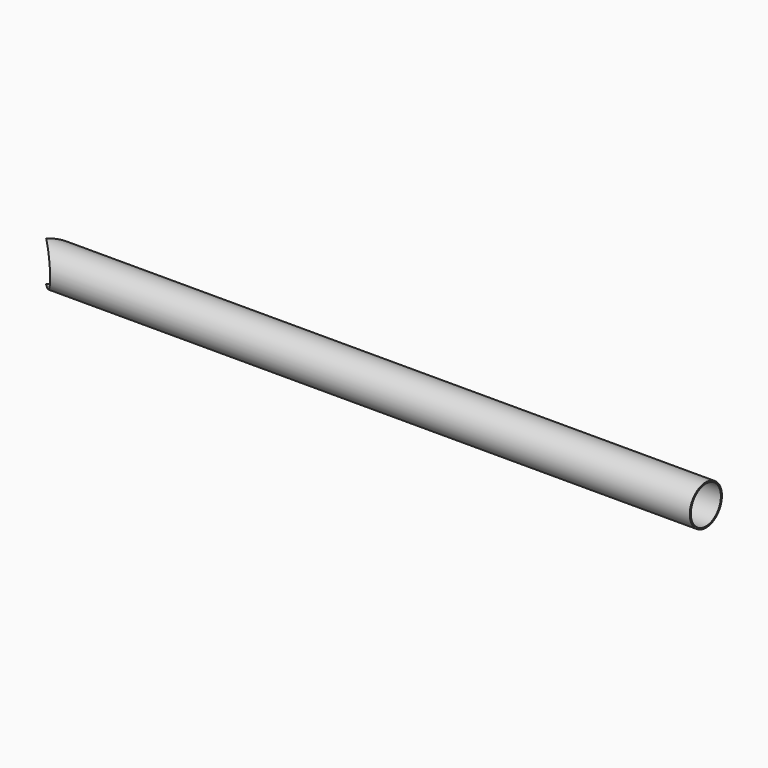
from build123d import *

# Parameters (mm, degrees)
SKETCH004_R          = 25.4
PAD002_DEPTH         = 833.289565
SKETCH013_R          = 23.749
POCKET004_DEPTH      = 833.290565
SKETCH012_R          = 25.4
POCKET005_DEPTH      = 0.001
POCKET005_DEPTH_BACK = 300.401


with BuildPart() as cargo_side_tube_r:
    # Sketch004 → Pad002 (new body)
    with BuildSketch(Plane.YZ):
        with Locations((-275, -25.4)):
            Circle(SKETCH004_R)
    extrude(amount=PAD002_DEPTH)

    # Sketch013 (on Face2 of Pad002) → Pocket004 (cut, through all)
    with BuildSketch(Plane(origin=(0, 0, 0), x_dir=(0, 1, 0), z_dir=(-1, 0, 0))):
        with Locations((-275, 25.4)):
            Circle(SKETCH013_R)
    extrude(amount=-POCKET004_DEPTH, mode=Mode.SUBTRACT)

    # Sketch012 → Pocket005 (cut, two sides)
    with BuildSketch(Plane.XZ) as pocket005_sk:
        with Locations((0, -25.4)):
            Circle(SKETCH012_R)
    extrude(amount=-POCKET005_DEPTH, mode=Mode.SUBTRACT)
    extrude(pocket005_sk.sketch, amount=POCKET005_DEPTH_BACK, mode=Mode.SUBTRACT)


with BuildPart() as cargo_side_tube_r_1:
    # Body002 placement: moved
    add(cargo_side_tube_r.part.moved(Location((397.787357, 0, 0))))


with BuildPart() as cargo_side_tube_l:
    # Part__Mirroring: instance of cargo_side_tube_r
    add(cargo_side_tube_r_1.part.mirror(Plane(origin=(0, 0, 0), x_dir=(1, 0, 0), z_dir=(0, 1, 0))))


solid = cargo_side_tube_l.part
